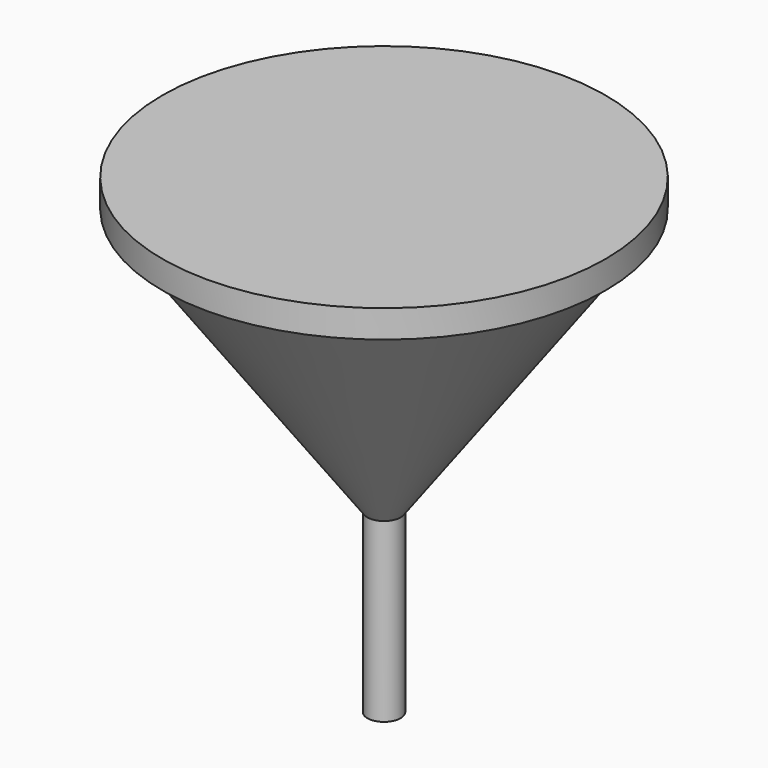
from build123d import *


with BuildPart() as f1:
    # F0 (on Front) → F1 (revolve)
    with BuildSketch(Plane.XZ):
        with BuildLine():
            Line((0, 1.5), (0, 40))
            Line((0, 40), (-1.5, 40))
            Line((-1.5, 40), (-1.5, 15.9549))
            Line((-1.5, 15.9549), (-1.5, 0))
            ThreePointArc((-1.5, 0), (-1.06066, 1.06066), (0, 1.5))
        make_face()
        Polygon((-1.5, 40), (0, 40), (0, 42.5), (-20, 42.5), (-20, 40), (-19, 40), align=None)
        Polygon((-1.5, 15.9549), (-1.5, 40), (-19, 40), align=None)
    revolve(axis=Axis((0, 0, 20.75), (0, 0, 1)))


solid = f1.part
